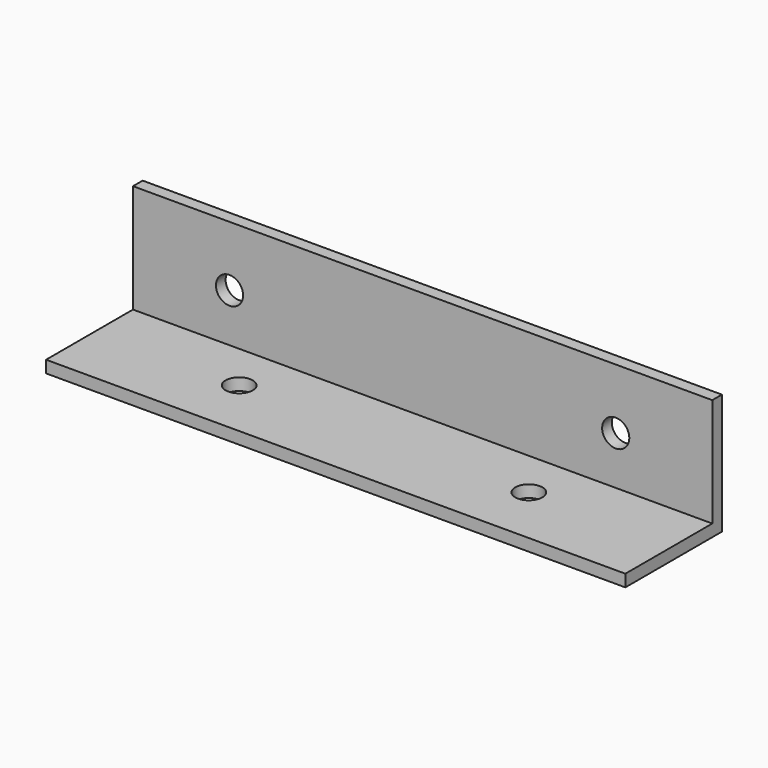
from build123d import *

# Parameters (mm, degrees)
F0_W     = 76.2
F0_H     = 15.875
F1_DEPTH = 0.79375
F2_R     = 1.785938
F3_DEPTH = 0.79375
F4_W     = 76.2
F4_H     = 1.5875
F5_DEPTH = 14.2875
F6_R     = 1.785938
F7_DEPTH = 1.5885


with BuildPart() as f1:
    # F0 (on Front) → F1 (new body, symmetric)
    with BuildSketch(Plane.XZ):
        Rectangle(F0_W, F0_H)
    extrude(amount=F1_DEPTH, both=True)

    # F2 (on Front) → F3 (cut, symmetric)
    with BuildSketch(Plane.XZ):
        with Locations((-25.4, 0)):
            Circle(F2_R)
        with Locations((25.4, 0)):
            Circle(F2_R)
    extrude(amount=F3_DEPTH, both=True, mode=Mode.SUBTRACT)

    # F4 (on face) → F5 (join)
    with BuildSketch(Plane.XZ.offset(0.79375)):
        with Locations((0, -7.14375)):
            Rectangle(F4_W, F4_H)
    extrude(amount=F5_DEPTH)

    # F6 (on face) → F7 (cut, through all)
    with BuildSketch(Plane.XY.offset(-6.35)):
        with Locations((-19.05, -7.14375)):
            Circle(F6_R)
        with Locations((19.05, -7.14375)):
            Circle(F6_R)
    extrude(amount=-F7_DEPTH, mode=Mode.SUBTRACT)


solid = f1.part
